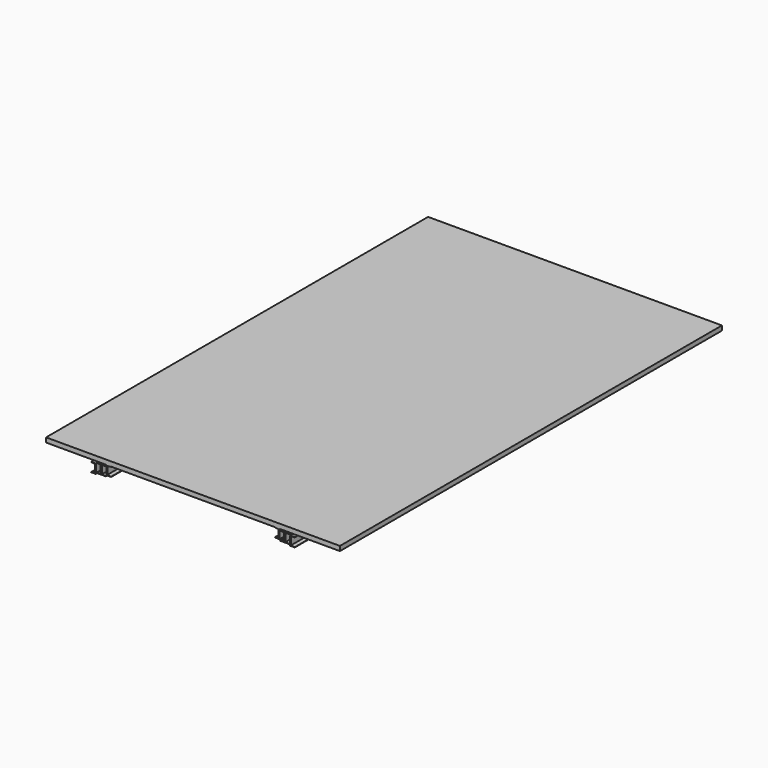
from build123d import *

# Parameters (mm, degrees)
F1_DEPTH = 1981.2


with BuildPart() as f1:
    # F0 (on Front) → F1 (new body)
    with BuildSketch(Plane.XZ):
        Polygon((-8.556552, 36.72772), (-27.606552, 36.72772), (-27.606552, -1.37228), (-8.556552, -1.37228), (-8.556552, -0.10228), (-24.431552, 1.286602), (-24.431552, 34.068837), (-8.556552, 35.45772), align=None)
        Polygon((-27.606552, -1.37228), (-27.606552, 36.72772), (-46.656552, 36.72772), (-46.656552, 35.45772), (-30.781552, 34.068837), (-30.781552, 1.286602), (-46.656552, -0.10228), (-46.656552, -1.37228), align=None)
        Polygon((-256.206552, 60.54022), (-256.206552, 41.49022), (-5.381552, 41.49022), (13.668448, 41.49022), (693.118448, 41.49022), (712.168448, 41.49022), (962.993448, 41.49022), (962.993448, 60.54022), align=None)
        Polygon((13.668448, 41.49022), (-5.381552, 41.49022), (-5.381552, 3.39022), (13.668448, 3.39022), (13.668448, 4.66022), (-2.206552, 6.049102), (-2.206552, 38.831337), (13.668448, 40.22022), align=None)
        Polygon((712.168448, 41.49022), (693.118448, 41.49022), (693.118448, 40.22022), (708.993448, 38.831337), (708.993448, 6.049102), (693.118448, 4.66022), (693.118448, 3.39022), (712.168448, 3.39022), align=None)
        Polygon((-68.881552, -6.13478), (-49.831552, -6.13478), (-49.831552, 31.96522), (-68.881552, 31.96522), (-68.881552, 30.69522), (-53.006552, 29.306337), (-53.006552, -3.475898), (-68.881552, -4.86478), align=None)
        Polygon((731.218448, 1.286602), (715.343448, -0.10228), (715.343448, -1.37228), (734.393448, -1.37228), (734.393448, 36.72772), (715.343448, 36.72772), (715.343448, 35.45772), (731.218448, 34.068837), align=None)
        Polygon((734.393448, 36.72772), (734.393448, -1.37228), (753.443448, -1.37228), (753.443448, -0.10228), (737.568448, 1.286602), (737.568448, 34.068837), (753.443448, 35.45772), (753.443448, 36.72772), align=None)
        Polygon((775.668448, 30.69522), (775.668448, 31.96522), (756.618448, 31.96522), (756.618448, -6.13478), (775.668448, -6.13478), (775.668448, -4.86478), (759.793448, -3.475898), (759.793448, 29.306337), align=None)
    extrude(amount=F1_DEPTH)


solid = f1.part
